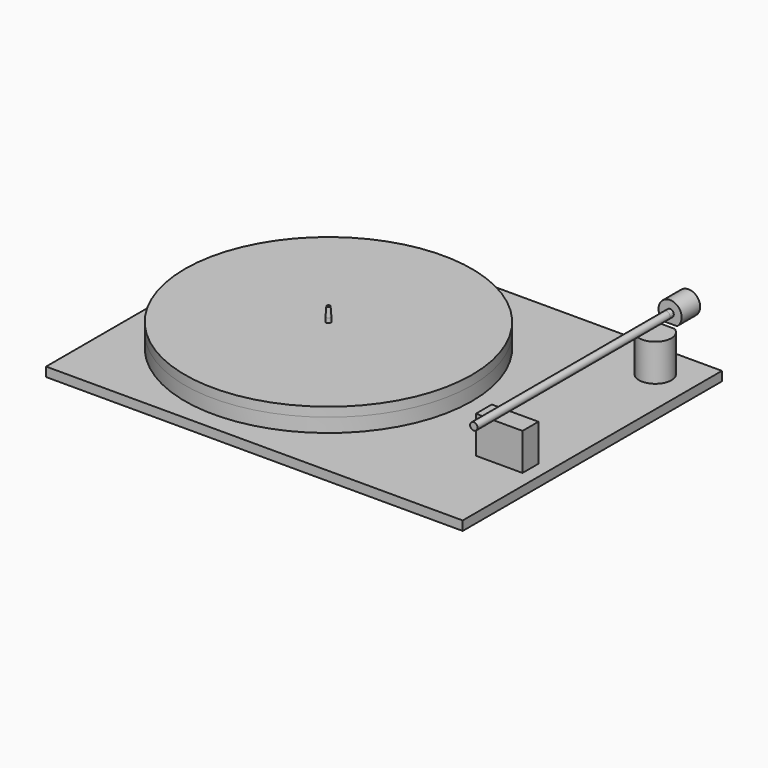
from build123d import *

# Parameters (mm, degrees)
F0_W          = 50.3910857439
F0_H          = 21.4959979057
F0_R          = 155
F0_R_2        = 2.5
F0_W_2        = 10
F0_H_2        = 10
F1_DEPTH      = 10
F2_DEPTH      = 25
F3_DEPTH      = 25
F5_START      = 5
F4_R          = 4
F5_DEPTH      = 25
F6_DEPTH      = 260
F6_DEPTH_BACK = 10
F7_DEPTH      = 40
F7_FACE_R     = 2.5
F8_DEPTH      = 10
F8_TAPER      = 4
F9_SIZE       = 114
F10_R         = 145.6448542145
F11_R         = 194.1931389527
F12_DEPTH     = 10


with BuildPart() as f1:
    # F0 (on Top) → F1 (new body)
    with BuildSketch(Plane.XY):
        Polygon((492.5687897205, 399.5023274422), (62.5687897205, 399.5023274422), (62.5687897205, 389.5023274422), (52.5687897205, 389.5023274422), (52.5687897205, 59.5023274422), (62.5687897205, 59.5023274422), (62.5687897205, 49.5023274422), (492.5687897205, 49.5023274422), (492.5687897205, 59.5023274422), (502.5687897205, 59.5023274422), (502.5687897205, 389.5023274422), (492.5687897205, 389.5023274422), align=None)
        with Locations((462.5687897205, 159.5023274422)):
            Rectangle(F0_W, F0_H, mode=Mode.SUBTRACT)
        with Locations((217.5687897205, 224.5023274422)):
            Circle(F0_R, mode=Mode.SUBTRACT)
        with BuildLine():
            ThreePointArc((471.5826679092, 374.5023274422), (462.5687897205, 342.0023274422), (453.5549115319, 374.5023274422))
            Line((453.5549115319, 374.5023274422), (471.5826679092, 374.5023274422))
        make_face(mode=Mode.SUBTRACT)
        Polygon((492.5687897205, 399.5023274422), (62.5687897205, 399.5023274422), (62.5687897205, 389.5023274422), (52.5687897205, 389.5023274422), (52.5687897205, 59.5023274422), (62.5687897205, 59.5023274422), (62.5687897205, 49.5023274422), (492.5687897205, 49.5023274422), (492.5687897205, 59.5023274422), (502.5687897205, 59.5023274422), (502.5687897205, 389.5023274422), (492.5687897205, 389.5023274422), align=None)
        with Locations((462.5687897205, 159.5023274422)):
            Rectangle(F0_W, F0_H, mode=Mode.SUBTRACT)
        with Locations((217.5687897205, 224.5023274422)):
            Circle(F0_R, mode=Mode.SUBTRACT)
        with BuildLine():
            ThreePointArc((471.5826679092, 374.5023274422), (462.5687897205, 342.0023274422), (453.5549115319, 374.5023274422))
            Line((453.5549115319, 374.5023274422), (471.5826679092, 374.5023274422))
        make_face(mode=Mode.SUBTRACT)
        with Locations((217.5687897205, 224.5023274422)):
            Circle(F0_R)
        with Locations((217.5687897205, 224.5023274422)):
            Circle(F0_R_2, mode=Mode.SUBTRACT)
        with Locations((462.5687897205, 159.5023274422)):
            Rectangle(F0_W, F0_H)
        with BuildLine():
            Line((471.5826679092, 374.5023274422), (453.5549115319, 374.5023274422))
            ThreePointArc((453.5549115319, 374.5023274422), (462.5687897205, 342.0023274422), (471.5826679092, 374.5023274422))
        make_face()
        with Locations((57.5687897205, 394.5023274422)):
            Rectangle(F0_W_2, F0_H_2)
        with Locations((497.5687897205, 394.5023274422)):
            Rectangle(F0_W_2, F0_H_2)
        with Locations((57.5687897205, 54.5023274422)):
            Rectangle(F0_W_2, F0_H_2)
        with Locations((497.5687897205, 54.5023274422)):
            Rectangle(F0_W_2, F0_H_2)
    extrude(amount=F1_DEPTH)

    # F0 (on Top) → F2 (join)
    with BuildSketch(Plane.XY):
        with BuildLine():
            Line((471.5826679092, 374.5023274422), (453.5549115319, 374.5023274422))
            ThreePointArc((453.5549115319, 374.5023274422), (462.5687897205, 342.0023274422), (471.5826679092, 374.5023274422))
        make_face()
        with Locations((462.5687897205, 159.5023274422)):
            Rectangle(F0_W, F0_H)
        with Locations((217.5687897205, 224.5023274422)):
            Circle(F0_R)
        with Locations((217.5687897205, 224.5023274422)):
            Circle(F0_R_2, mode=Mode.SUBTRACT)
    extrude(amount=F2_DEPTH)

    # F3 (add): faces of the model
    f3_faces = [f1.faces().sort_by_distance(p)[0] for p in [
        (462.5687897205, 358.9782324259, 25),
        (462.5687897205, 159.5023274422, 25),
    ]]
    extrude(f3_faces, amount=F3_DEPTH)

    # F0 (on Top) → F7 (join)
    with BuildSketch(Plane.XY):
        with Locations((217.5687897205, 224.5023274422)):
            Circle(F0_R_2)
    extrude(amount=F7_DEPTH)

    # F7_face (on face) → F8 (join)
    with BuildSketch(Plane(origin=(217.5687897205, 224.5023274422, 40), x_dir=(1, 0, 0), z_dir=(0, 0, 1))):
        Circle(F7_FACE_R)
    extrude(amount=F8_DEPTH, taper=F8_TAPER)

    # F9
    f9_edges = [f1.edges().sort_by_distance(p)[0] for p in [
        (52.56879, 399.502327, 5),
    ]]
    chamfer(f9_edges, length=F9_SIZE)

    # F10
    f10_edges = [f1.edges().sort_by_distance(p)[0] for p in [
        (52.56879, 285.502327, 5),
    ]]
    fillet(f10_edges, radius=F10_R)

    # F11
    f11_edges = [f1.edges().sort_by_distance(p)[0] for p in [
        (166.56879, 399.502327, 5),
    ]]
    fillet(f11_edges, radius=F11_R)


with BuildPart() as f5:
    # F4 (on face) → F5 (new body)
    with BuildSketch(Plane(origin=(0, 374.5023274422, 0), x_dir=(-1, 0, 0), z_dir=(0, 1, 0)).offset(F5_START)):
        with BuildLine():
            ThreePointArc((-455.0687897205, 50), (-451.388449833, 54.4098300563), (-450.0687897205, 60))
            ThreePointArc((-450.0687897205, 60), (-468.1589596643, 71.1803398875), (-470.0687897205, 50))
            Line((-470.0687897205, 50), (-455.0687897205, 50))
        make_face()
        with Locations((-462.5687897205, 60)):
            Circle(F4_R, mode=Mode.SUBTRACT)
    extrude(amount=F5_DEPTH)

    # F4 (on face) → F6 (join, two sides)
    with BuildSketch(Plane(origin=(0, 374.5023274422, 0), x_dir=(-1, 0, 0), z_dir=(0, 1, 0))) as f6_sk:
        with Locations((-462.5687897205, 60)):
            Circle(F4_R)
    extrude(amount=-F6_DEPTH)
    extrude(f6_sk.sketch, amount=F6_DEPTH_BACK)


with BuildPart() as f12:
    # F12 (new): a face of the model
    f12_faces = [f1.part.faces().sort_by_distance(p)[0] for p in [
        (66.9528517639, 224.5023274422, 25),
    ]]
    extrude(f12_faces, amount=F12_DEPTH)


solid = Compound([f1.part, f5.part, f12.part])
